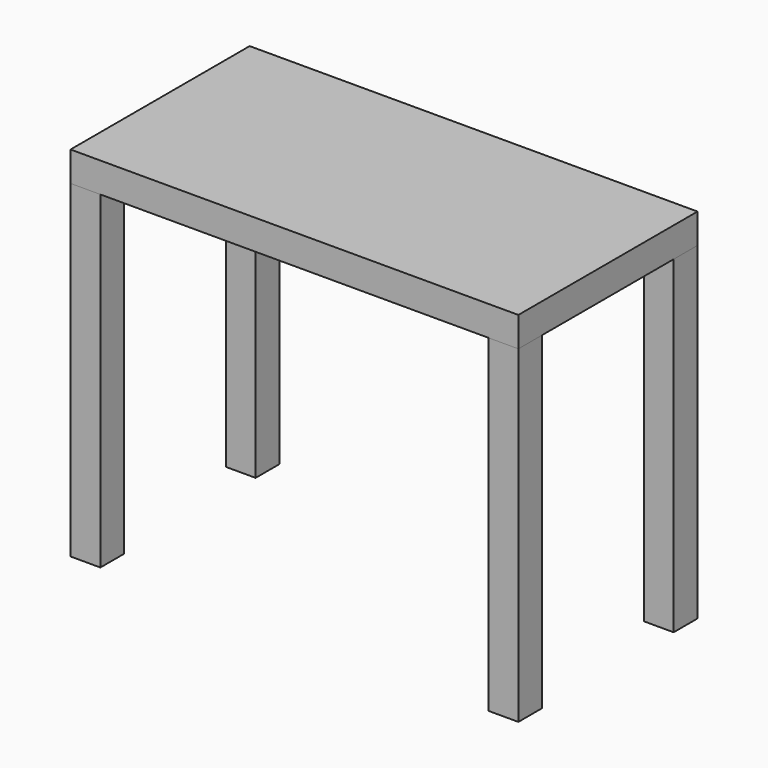
from build123d import *

# Parameters (mm, degrees)
F4_W     = 101.6
F4_H     = 101.6
F5_DEPTH = 1117.6
F6_W     = 1524
F6_H     = 50.8
F7_DEPTH = 101.6


with BuildPart() as f5:
    # F4 (on Top) → F5 (new body)
    with BuildSketch(Plane.XY):
        with Locations((-711.2, 330.2)):
            Rectangle(F4_W, F4_H)
    extrude(amount=-F5_DEPTH)


with BuildPart() as f5b:
    # F4 (on Top) → F5, piece 2 (new body)
    with BuildSketch(Plane.XY):
        with Locations((711.2, 330.2)):
            Rectangle(F4_W, F4_H)
    extrude(amount=-F5_DEPTH)


with BuildPart() as f5c:
    # F4 (on Top) → F5, piece 3 (new body)
    with BuildSketch(Plane.XY):
        with Locations((711.2, -330.2)):
            Rectangle(F4_W, F4_H)
    extrude(amount=-F5_DEPTH)


with BuildPart() as f5d:
    # F4 (on Top) → F5, piece 4 (new body)
    with BuildSketch(Plane.XY):
        with Locations((-711.2, -330.2)):
            Rectangle(F4_W, F4_H)
    extrude(amount=-F5_DEPTH)


with BuildPart() as f7:
    # F6 (on offset) → F7 (new body)
    with BuildSketch(Plane.XY.offset(101.6)):
        with Locations((0, -355.6)):
            Rectangle(F6_W, F6_H)
        with Locations((0, -304.8)):
            Rectangle(F6_W, F6_H)
        with Locations((0, -254)):
            Rectangle(F6_W, F6_H)
        with Locations((0, -203.2)):
            Rectangle(F6_W, F6_H)
        with Locations((0, -152.4)):
            Rectangle(F6_W, F6_H)
        with Locations((0, -101.6)):
            Rectangle(F6_W, F6_H)
        with Locations((0, -50.8)):
            Rectangle(F6_W, F6_H)
        Rectangle(F6_W, F6_H)
        with Locations((0, 50.8)):
            Rectangle(F6_W, F6_H)
        with Locations((0, 101.6)):
            Rectangle(F6_W, F6_H)
        with Locations((0, 152.4)):
            Rectangle(F6_W, F6_H)
        with Locations((0, 203.2)):
            Rectangle(F6_W, F6_H)
        with Locations((0, 254)):
            Rectangle(F6_W, F6_H)
        with Locations((0, 304.8)):
            Rectangle(F6_W, F6_H)
        with Locations((0, 355.6)):
            Rectangle(F6_W, F6_H)
    extrude(amount=-F7_DEPTH)


solid = Compound([f5.part, f5b.part, f5c.part, f5d.part, f7.part])
